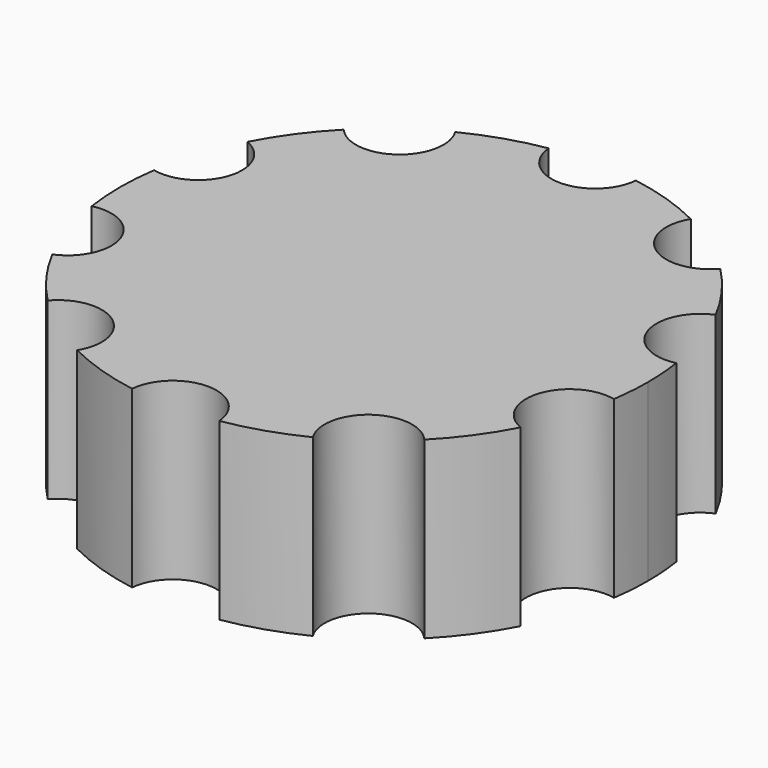
from build123d import *

# Parameters (mm, degrees)
F1_DEPTH = 25.4


with BuildPart() as f1:
    # F0 (on Top) → F1 (new body)
    with BuildSketch(Plane.XY):
        with BuildLine():
            ThreePointArc((37.897299, -5.659754), (38.212376, -2.837669), (38.317595, 0))
            ThreePointArc((38.317595, 0), (38.212376, 2.837669), (37.897299, 5.659754))
            ThreePointArc((37.897299, 5.659754), (30.402989, 9.87853), (33.986279, 17.696636))
            ThreePointArc((33.986279, 17.696636), (30.999585, 22.522517), (27.332839, 26.85431))
            ThreePointArc((27.332839, 26.85431), (18.790081, 25.862327), (17.093655, 34.293513))
            ThreePointArc((17.093655, 34.293513), (11.840788, 36.442198), (6.328164, 37.791433))
            ThreePointArc((6.328164, 37.791433), (0, 31.967595), (-6.328164, 37.791433))
            ThreePointArc((-6.328164, 37.791433), (-11.840788, 36.442198), (-17.093655, 34.293513))
            ThreePointArc((-17.093655, 34.293513), (-16.407136, 32.709735), (-16.172517, 30.999585))
            ThreePointArc((-16.172517, 30.999585), (-20.311527, 25.046937), (-27.332839, 26.85431))
            ThreePointArc((-27.332839, 26.85431), (-30.999585, 22.522517), (-33.986279, 17.696636))
            ThreePointArc((-33.986279, 17.696636), (-31.15459, 15.356994), (-30.092198, 11.840788))
            ThreePointArc((-30.092198, 11.840788), (-32.499952, 6.862717), (-37.897299, 5.659754))
            ThreePointArc((-37.897299, 5.659754), (-38.317595, 0), (-37.897299, -5.659754))
            ThreePointArc((-37.897299, -5.659754), (-32.499952, -6.862717), (-30.092198, -11.840788))
            ThreePointArc((-30.092198, -11.840788), (-31.15459, -15.356994), (-33.986279, -17.696636))
            ThreePointArc((-33.986279, -17.696636), (-30.999585, -22.522517), (-27.332839, -26.85431))
            ThreePointArc((-27.332839, -26.85431), (-20.311527, -25.046937), (-16.172517, -30.999585))
            ThreePointArc((-16.172517, -30.999585), (-16.407136, -32.709735), (-17.093655, -34.293513))
            ThreePointArc((-17.093655, -34.293513), (-11.840788, -36.442198), (-6.328164, -37.791433))
            ThreePointArc((-6.328164, -37.791433), (0, -31.967595), (6.328164, -37.791433))
            ThreePointArc((6.328164, -37.791433), (11.840788, -36.442198), (17.093655, -34.293513))
            ThreePointArc((17.093655, -34.293513), (18.790081, -25.862327), (27.332839, -26.85431))
            ThreePointArc((27.332839, -26.85431), (30.999585, -22.522517), (33.986279, -17.696636))
            ThreePointArc((33.986279, -17.696636), (30.402989, -9.87853), (37.897299, -5.659754))
        make_face()
    extrude(amount=F1_DEPTH)


solid = f1.part
